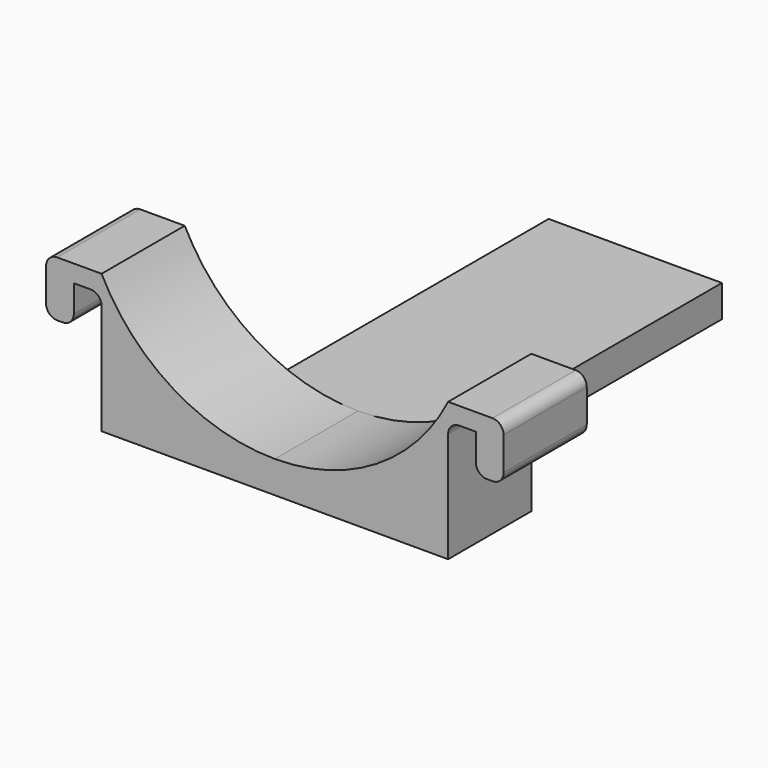
from build123d import *

# Parameters (mm, degrees)
F1_DEPTH = 19.05
F3_W     = 31.75
F3_H     = 5.854091
F4_DEPTH = 63.5


with BuildPart() as f1:
    # F0 (on Front) → F1 (new body)
    with BuildSketch(Plane.XZ):
        with BuildLine():
            Line((0, 5.854091), (0, 0))
            Line((0, 0), (31.75, 0))
            Line((31.75, 0), (31.75, 20.193))
            ThreePointArc((31.75, 20.193), (32.345159, 21.629841), (33.782, 22.225))
            Line((33.782, 22.225), (36.83, 22.225))
            Line((36.83, 22.225), (36.83, 17.272))
            ThreePointArc((36.83, 17.272), (37.425159, 15.835159), (38.862, 15.24))
            Line((38.862, 15.24), (39.878, 15.24))
            ThreePointArc((39.878, 15.24), (41.314841, 15.835159), (41.91, 17.272))
            Line((41.91, 17.272), (41.91, 23.368))
            ThreePointArc((41.91, 23.368), (41.314841, 24.804841), (39.878, 25.4))
            Line((39.878, 25.4), (31.75, 25.4))
            ThreePointArc((31.75, 25.4), (18.642056, 11.132292), (0, 5.854091))
        make_face()
        with BuildLine():
            Line((0, 5.854091), (0, 0))
            Line((0, 0), (31.75, 0))
            Line((31.75, 0), (31.75, 20.193))
            ThreePointArc((31.75, 20.193), (32.345159, 21.629841), (33.782, 22.225))
            Line((33.782, 22.225), (36.83, 22.225))
            Line((36.83, 22.225), (36.83, 17.272))
            ThreePointArc((36.83, 17.272), (37.425159, 15.835159), (38.862, 15.24))
            Line((38.862, 15.24), (39.878, 15.24))
            ThreePointArc((39.878, 15.24), (41.314841, 15.835159), (41.91, 17.272))
            Line((41.91, 17.272), (41.91, 23.368))
            ThreePointArc((41.91, 23.368), (41.314841, 24.804841), (39.878, 25.4))
            Line((39.878, 25.4), (31.75, 25.4))
            ThreePointArc((31.75, 25.4), (18.642056, 11.132292), (0, 5.854091))
        make_face()
    extrude(amount=F1_DEPTH)

    # F2: F1 across plane


with BuildPart() as f1_1:
    add(f1.part)
    add(f1.part.mirror(Plane.YZ))

    # F3 (on Front) → F4 (join)
    with BuildSketch(Plane.XZ):
        with Locations((0, 2.927045)):
            Rectangle(F3_W, F3_H)
    extrude(amount=-F4_DEPTH)


solid = f1_1.part
